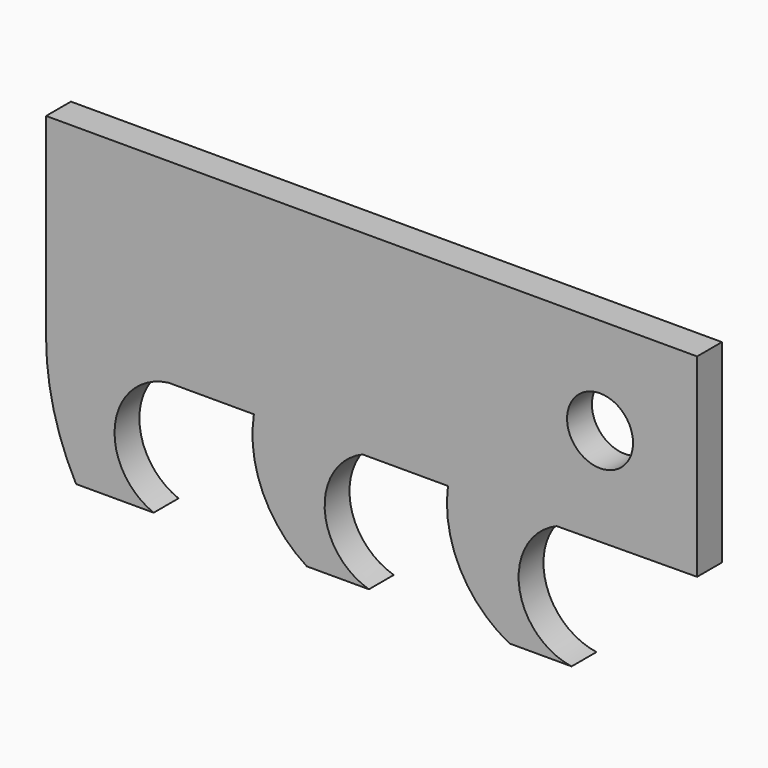
from build123d import *

# Parameters (mm, degrees)
F0_R     = 8.5
F1_DEPTH = 8


with BuildPart() as f1:
    # F0 (on Front) → F1 (new body)
    with BuildSketch(Plane.XZ):
        with BuildLine():
            Line((88.008557, 80.983967), (-79.72115, 80.983967))
            Line((-79.72115, 80.983967), (-79.72115, 30.726752))
            ThreePointArc((-79.72115, 30.726752), (-77.761317, 14.88575), (-72, 0))
            Line((-72, 0), (-52, 0))
            ThreePointArc((-52, 0), (-61.959604, 16.838163), (-48.181921, 30.726752))
            Line((-48.181921, 30.726752), (-26.181921, 30.726752))
            ThreePointArc((-26.181921, 30.726752), (-23.867446, 13.648604), (-12.537347, 0.662117))
            Line((-12.537347, 0.662117), (3.462653, 0.662117))
            ThreePointArc((3.462653, 0.662117), (-7.925971, 15.116443), (1.818079, 30.726752))
            Line((1.818079, 30.726752), (23.818079, 30.726752))
            ThreePointArc((23.818079, 30.726752), (26.923148, 12.938641), (39.676101, 0.155035))
            Line((39.676101, 0.155035), (55.676101, 0.155035))
            ThreePointArc((55.676101, 0.155035), (42.154292, 13.977932), (51.818079, 30.726752))
            Line((51.818079, 30.726752), (88.008557, 30.983967))
            Line((88.008557, 30.983967), (88.008557, 80.983967))
        make_face()
        with Locations((63.008557, 55.983967)):
            Circle(F0_R, mode=Mode.SUBTRACT)
    extrude(amount=F1_DEPTH)


solid = f1.part
